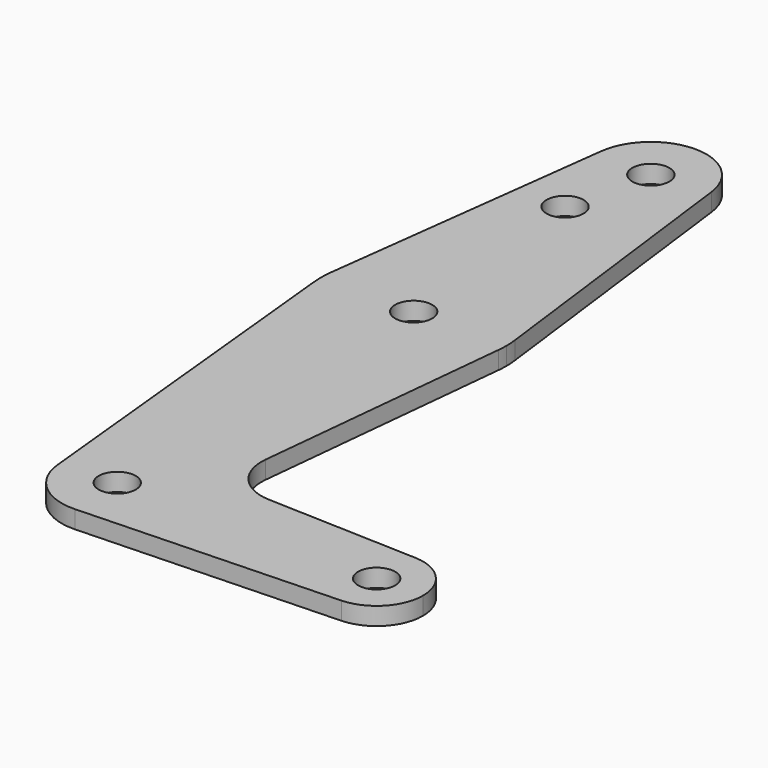
from build123d import *

# Parameters (mm, degrees)
F0_R     = 3.175
F1_DEPTH = 3.048


with BuildPart() as f1:
    # F0 (on Top) → F1 (new body)
    with BuildSketch(Plane.XY):
        with BuildLine():
            ThreePointArc((9.450293, 115.490625), (0, 123.825), (-9.450293, 115.490625))
            ThreePointArc((-9.450293, 115.490625), (-0.596483, 104.793695), (9.525, 114.3))
            ThreePointArc((9.525, 114.3), (9.506305, 114.896483), (9.450293, 115.490625))
        make_face()
        with Locations((0, 114.3)):
            Circle(F0_R, mode=Mode.SUBTRACT)
        with BuildLine():
            Line((-9.450293, 115.490625), (-15.750488, 65.484375))
            ThreePointArc((-15.750488, 65.484375), (0, 79.375), (15.750488, 65.484375))
            Line((15.750488, 65.484375), (9.450293, 115.490625))
            ThreePointArc((9.450293, 115.490625), (9.506305, 114.896483), (9.525, 114.3))
            ThreePointArc((9.525, 114.3), (-0.596483, 104.793695), (-9.450293, 115.490625))
        make_face()
        with Locations((-3.175, 99.886943)):
            Circle(F0_R, mode=Mode.SUBTRACT)
        with BuildLine():
            ThreePointArc((-15.750488, 65.484375), (-15.873744, 63.699705), (-15.795426, 61.9125))
            ThreePointArc((-15.795426, 61.9125), (-0.006091, 47.625001), (15.794203, 61.90038))
            ThreePointArc((15.794203, 61.90038), (15.854788, 62.699171), (15.875, 63.5))
            ThreePointArc((15.875, 63.5), (15.843841, 64.494139), (15.750488, 65.484375))
            ThreePointArc((15.750488, 65.484375), (0, 79.375), (-15.750488, 65.484375))
        make_face()
        with Locations((0, 63.5)):
            Circle(F0_R, mode=Mode.SUBTRACT)
        with BuildLine():
            ThreePointArc((-9.477255, -0.9525), (-0.476848, 9.513056), (9.525, 0))
            ThreePointArc((9.525, 0), (6.854408, -6.613827), (0.340179, -9.518923))
            Line((0.340179, -9.518923), (44.733482, -7.932436))
            ThreePointArc((44.733482, -7.932436), (36.5125, 0), (44.733482, 7.932436))
            Line((44.733482, 7.932436), (18.933378, 8.854457))
            ThreePointArc((18.933378, 8.854457), (13.224973, 11.574881), (11.307577, 17.600674))
            Line((11.307577, 17.600674), (15.794203, 61.90038))
            ThreePointArc((15.794203, 61.90038), (-0.006091, 47.625001), (-15.795426, 61.9125))
            Line((-15.795426, 61.9125), (-9.477255, -0.9525))
        make_face()
        with BuildLine():
            ThreePointArc((0.340179, -9.518923), (6.854408, -6.613827), (9.525, 0))
            ThreePointArc((9.525, 0), (-0.476848, 9.513056), (-9.477255, -0.9525))
            ThreePointArc((-9.477255, -0.9525), (-6.262383, -7.17692), (0.340179, -9.518923))
        make_face()
        Circle(F0_R, mode=Mode.SUBTRACT)
        with BuildLine():
            ThreePointArc((44.733482, 7.932436), (36.5125, 0), (44.733482, -7.932436))
            ThreePointArc((44.733482, -7.932436), (50.162007, -5.511523), (52.3875, 0))
            ThreePointArc((52.3875, 0), (50.162007, 5.511523), (44.733482, 7.932436))
        make_face()
        with Locations((44.45, 0)):
            Circle(F0_R, mode=Mode.SUBTRACT)
    extrude(amount=F1_DEPTH)


solid = f1.part
